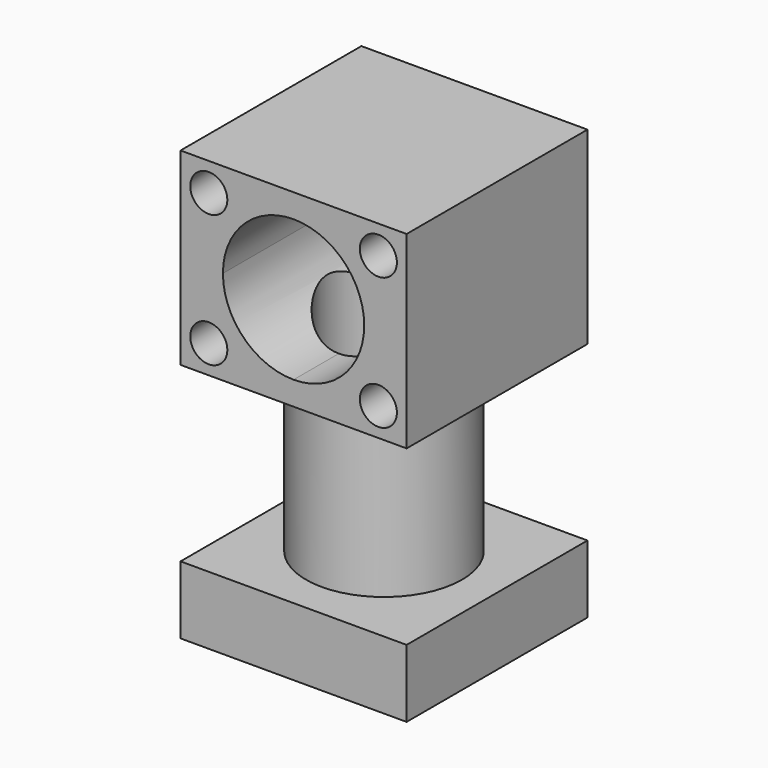
from build123d import *

# Parameters (mm, degrees)
F0_W      = 25.4
F0_H      = 25.4
F1_DEPTH  = 7.62
F2_R      = 8.763
F3_DEPTH  = 19.431
F4_W      = 25.4
F4_H      = 25.4
F5_DEPTH  = 21.209
F6_R      = 6.35
F7_DEPTH  = 46.5582
F8_R      = 2.0828
F9_DEPTH  = 25.401
F11_DEPTH = 25.401
F13_DEPTH = 25.4
F14_R     = 2.0828
F15_DEPTH = 6.35


with BuildPart() as f1:
    # F0 (on Top) → F1 (new body)
    with BuildSketch(Plane.XY):
        Rectangle(F0_W, F0_H)
    extrude(amount=F1_DEPTH)

    # F2 (on face) → F3 (join)
    with BuildSketch(Plane.XY.offset(7.62)):
        Circle(F2_R)
    extrude(amount=F3_DEPTH)

    # F4 (on face) → F5 (join)
    with BuildSketch(Plane.XY.offset(27.051)):
        Rectangle(F4_W, F4_H)
    extrude(amount=F5_DEPTH)

    # F6 (on face) → F7 (cut)
    with BuildSketch(Plane(origin=(0, 0, 0), x_dir=(1, 0, 0), z_dir=(0, 0, -1))):
        Circle(F6_R)
    extrude(amount=-F7_DEPTH, mode=Mode.SUBTRACT)

    # F8 (on face) → F9 (cut, through all)
    with BuildSketch(Plane.XZ.offset(12.7)):
        with Locations((-9.525, 45.085)):
            Circle(F8_R)
        with Locations((9.525, 45.085)):
            Circle(F8_R)
        with Locations((-9.525, 30.226)):
            Circle(F8_R)
        with Locations((9.525, 30.226)):
            Circle(F8_R)
    extrude(amount=-F9_DEPTH, mode=Mode.SUBTRACT)

    # F10 (on face) → F11 (cut, through all)
    with BuildSketch(Plane(origin=(0, 12.7, 0), x_dir=(-1, 0, 0), z_dir=(0, 1, 0))):
        with BuildLine():
            ThreePointArc((7.9375, 37.6555), (5.6126600757, 43.2681600757), (0, 45.593))
            Line((0, 45.593), (0, 29.718))
            ThreePointArc((0, 29.718), (5.6126600757, 32.0428399243), (7.9375, 37.6555))
        make_face()
        with BuildLine():
            Line((0, 29.718), (0, 45.593))
            ThreePointArc((0, 45.593), (-7.9375, 37.6555), (0, 29.718))
        make_face()
    extrude(amount=-F11_DEPTH, mode=Mode.SUBTRACT)

    # F12 (on Front) → F13 (cut)
    with BuildSketch(Plane.XZ):
        with BuildLine():
            Line((-1.5875, 12.3317), (0, 12.3317))
            Line((0, 12.3317), (0, 13.9192))
            ThreePointArc((0, 13.9192), (-0.4649679849, 12.7966679849), (-1.5875, 12.3317))
        make_face()
        with BuildLine():
            Line((0, 13.9192), (0, 12.3317))
            Line((0, 12.3317), (1.5875, 12.3317))
            ThreePointArc((1.5875, 12.3317), (0.4649679849, 12.7966679849), (0, 13.9192))
        make_face()
        with BuildLine():
            ThreePointArc((1.5875, 15.5067), (0.4649679849, 15.0417320151), (0, 13.9192))
            Line((0, 13.9192), (1.5875, 13.9192))
            Line((1.5875, 13.9192), (1.5875, 15.5067))
        make_face()
        with BuildLine():
            ThreePointArc((-1.5875, 15.5067), (-0.4649679849, 15.0417320151), (0, 13.9192))
            ThreePointArc((0, 13.9192), (0.4649679849, 15.0417320151), (1.5875, 15.5067))
            Line((1.5875, 15.5067), (-1.5875, 15.5067))
        make_face()
        with BuildLine():
            Line((1.5875, 13.9192), (0, 13.9192))
            ThreePointArc((0, 13.9192), (0.4649679849, 12.7966679849), (1.5875, 12.3317))
            Line((1.5875, 12.3317), (1.5875, 13.9192))
        make_face()
        with BuildLine():
            ThreePointArc((-1.5875, 12.3317), (-0.4649679849, 12.7966679849), (0, 13.9192))
            ThreePointArc((0, 13.9192), (-0.4649679849, 15.0417320151), (-1.5875, 15.5067))
            ThreePointArc((-1.5875, 15.5067), (-3.175, 13.9192), (-1.5875, 12.3317))
        make_face()
        with BuildLine():
            Line((1.5875, 13.9192), (1.5875, 12.3317))
            ThreePointArc((1.5875, 12.3317), (2.7100320151, 12.7966679849), (3.175, 13.9192))
            ThreePointArc((3.175, 13.9192), (2.7100320151, 15.0417320151), (1.5875, 15.5067))
            Line((1.5875, 15.5067), (1.5875, 13.9192))
        make_face()
    extrude(amount=-F13_DEPTH, mode=Mode.SUBTRACT)

    # F14 (on face) → F15 (cut)
    with BuildSketch(Plane(origin=(0, 0, 0), x_dir=(1, 0, 0), z_dir=(0, 0, -1))):
        with Locations((-9.525, 9.525)):
            Circle(F14_R)
        with Locations((-9.525, -9.525)):
            Circle(F14_R)
        with Locations((9.525, 9.525)):
            Circle(F14_R)
        with Locations((9.525, -9.525)):
            Circle(F14_R)
    extrude(amount=-F15_DEPTH, mode=Mode.SUBTRACT)


solid = f1.part
